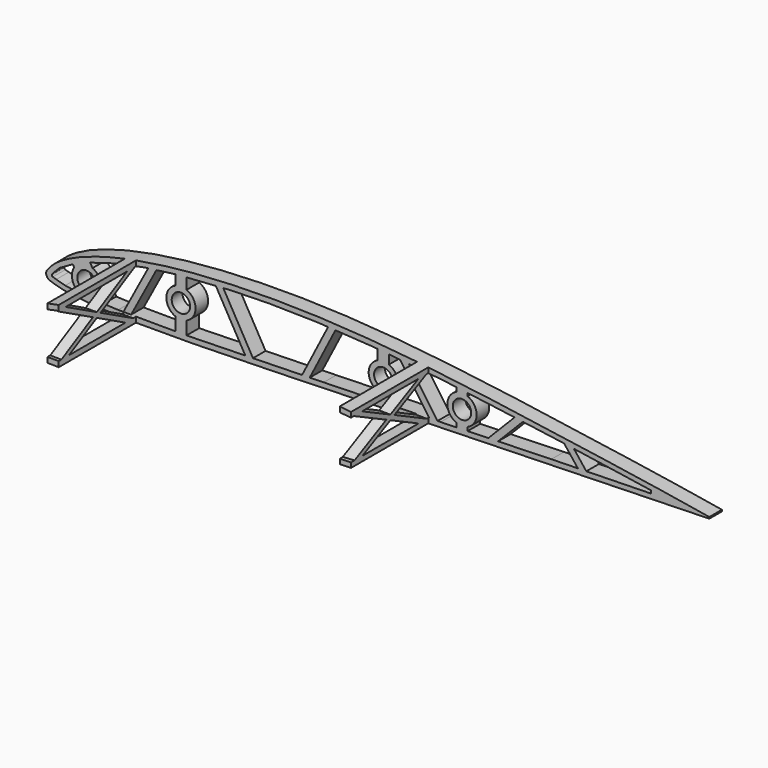
from build123d import *

# Parameters (mm, degrees)
PAD071_DEPTH    = 49.95
POCKET098_DEPTH = 49.95
SKETCH172_W     = 89.545105
SKETCH172_H     = 96.443817
POCKET099_DEPTH = 2.5
SKETCH174_W     = 45
SKETCH174_H     = 60
SKETCH174_W_2   = 125
SKETCH174_W_3   = 130
POCKET100_DEPTH = 50
SKETCH173_R     = 4.1
PAD072_DEPTH    = 7
PAD073_DEPTH    = 5
PAD074_DEPTH    = 5
CHAMFER004_SIZE = 1


with BuildPart() as part:
    # Sketch170 → Pad071 (new body)
    with BuildSketch(Plane.XZ):
        with BuildLine():
            add(Edge.make_bspline(
                [(299.999063, 0.026825), (299.662766, 0.037193), (298.339429, 0.190401), (295.439956, 0.589669), (290.775356, 1.337839), (284.500044, 2.393262), (276.735212, 3.66473), (267.577355, 5.083019), (257.136483, 6.653879), (245.549215, 8.381993), (232.975291, 10.222771), (219.590016, 12.153256), (205.573823, 14.115503), (191.111579, 16.055183), (176.381713, 17.897983), (161.544489, 19.553409), (146.739309, 20.940939), (132.087536, 21.99009), (117.705275, 22.664279), (103.703346, 22.961168), (90.192549, 22.858072), (77.284675, 22.375726), (65.094168, 21.544938), (53.730431, 20.369385), (43.29002, 18.857963), (33.852484, 17.043697), (25.485501, 14.967735), (18.252292, 12.67281), (12.179436, 10.224412), (7.338355, 7.689021), (3.623023, 5.152403), (1.3546, 2.748114), (-0.314638, 0.590402), (0.575789, -1.804065), (3.482069, -2.72942), (7.386052, -3.91761), (13.030922, -4.754284), (20.096342, -5.463024), (28.645402, -5.933379), (38.56853, -6.201185), (49.790194, -6.284208), (62.196701, -6.193111), (75.660953, -5.967607), (90.034637, -5.629522), (105.153445, -5.226063), (120.83724, -4.775199), (136.895942, -4.296045), (153.13493, -3.818601), (169.356828, -3.345106), (185.36574, -2.889379), (200.968742, -2.465331), (215.974941, -2.074889), (230.201502, -1.715375), (243.47905, -1.394255), (255.639348, -1.103787), (266.55871, -0.849968), (276.034544, -0.603524), (284.209012, -0.340437), (290.324953, -0.117215), (295.955653, 0.018504), (297.364702, 0.013759), (300.343856, 0.01512), (300.000055, 0.026794), (299.999063, 0.026825)],
                knots=[0, 0, 0, 0, 1.017748, 3.99659, 8.779341, 15.189917, 23.087031, 32.383824, 42.990765, 54.76218, 67.530065, 81.114584, 95.333435, 109.988542, 124.889458, 139.866624, 154.774633, 169.496697, 183.930349, 197.964304, 211.506735, 224.45797, 236.709214, 248.156653, 258.723012, 268.346769, 276.97692, 284.567784, 291.102108, 296.573756, 300.992679, 304.39163, 306.761357, 308.43213, 311.131254, 315.298227, 320.951765, 328.080828, 336.654655, 346.609821, 357.866231, 370.316475, 383.83025, 398.264023, 413.449345, 429.202773, 445.334827, 461.646891, 477.940787, 494.021253, 509.693044, 524.767168, 539.054704, 552.387642, 564.607107, 575.560217, 585.109622, 593.180747, 599.700326, 604.53767, 607.540683, 608.560842, 608.563842, 608.563842, 608.563842, 608.563842], degree=3))
        make_face()
    extrude(amount=PAD071_DEPTH)

    # Sketch171 (on Face3 of Pad071) → Pocket098 (cut)
    with BuildSketch(Plane.XZ.offset(49.95)):
        with BuildLine():
            Line((2.713263, 0.775372), (3.386703, 1.523026))
            Line((3.386703, 1.523026), (5.993214, 4.179621))
            Line((5.993214, 4.179621), (11.230826, 7.180706))
            Line((11.230826, 7.180706), (18.928726, 10.492708))
            Line((18.928726, 10.492708), (30.015602, 13.804502))
            Line((30.015602, 13.804502), (43.705284, 16.658491))
            Line((43.705284, 16.658491), (58.37534, 18.58366))
            Line((58.37534, 18.58366), (81.932846, 20.199753))
            Line((81.932846, 20.199753), (99.115959, 20.581533))
            Line((99.115959, 20.581533), (120.506348, 20.199753))
            Line((120.506348, 20.199753), (145.772324, 18.655943))
            Line((145.772324, 18.655943), (175.747543, 15.772772))
            Line((175.747543, 15.772772), (200.435547, 12.569891))
            Line((200.435547, 12.569891), (229.384109, 8.602522))
            Line((229.384109, 8.602522), (252.135086, 5.213018))
            Line((252.135086, 5.213018), (269.069916, 2.671427))
            Line((269.069916, 2.671427), (269.069916, 1.39956))
            Line((269.069916, 1.39956), (224.761032, 0.436598))
            Line((224.761032, 0.436598), (175.486649, -1.027315))
            Line((175.486649, -1.027315), (123.47789, -2.412929))
            Line((123.47789, -2.412929), (62.077515, -3.876549))
            Line((62.077515, -3.876549), (32.052879, -3.760909))
            Line((32.052879, -3.760909), (18.887957, -3.18288))
            Line((18.887957, -3.18288), (12.728564, -2.489715))
            Line((12.728564, -2.489715), (8.493419, -1.872198))
            Line((8.493419, -1.872198), (4.562357, -0.768246))
            Line((4.562357, -0.768246), (3.013953, -0.301296))
            ThreePointArc((2.713263, 0.775372), (2.567567, 0.15436), (3.013953, -0.301296))
        make_face()
    extrude(amount=-POCKET098_DEPTH, mode=Mode.SUBTRACT)

    # Sketch172 → Pocket099 (cut, symmetric)
    with BuildSketch(Plane.XY):
        with Locations((339.772552, -30.852761)):
            Rectangle(SKETCH172_W, SKETCH172_H)
    extrude(amount=POCKET099_DEPTH, both=True, mode=Mode.SUBTRACT)

    # Sketch174 → Pocket100 (cut, symmetric)
    with BuildSketch(Plane.XY):
        with Locations((12.5, -37)):
            Rectangle(SKETCH174_W, SKETCH174_H)
        with Locations((102.5, -37)):
            Rectangle(SKETCH174_W_2, SKETCH174_H)
        with Locations((235, -37)):
            Rectangle(SKETCH174_W_3, SKETCH174_H)
    extrude(amount=POCKET100_DEPTH, both=True, mode=Mode.SUBTRACT)

    # Sketch173 (on Face16 of Pocket100) → Pad072 (join)
    with BuildSketch(Plane.XZ.offset(7)):
        Polygon((45.883972, 17.721869), (33.929979, -4.654965), (37.331221, -4.654965), (49.864502, 18.806244), align=None)
        with BuildLine():
            ThreePointArc((12.49229, 6.45183), (11.877033, 0.818423), (15.915785, -3.156789))
            Line((15.915785, -3.156789), (16.615922, -4.582716))
            Line((16.615922, -4.582716), (26.093039, -4.582716))
            Line((23.927186, 0.331954), (26.093039, -4.582716))
            ThreePointArc((23.927186, 0.331954), (24.083233, 5.290038), (20.696327, 8.914374))
            Line((20.696327, 8.914374), (19.191151, 11.361285))
            Line((11.725203, 8.211095), (19.191151, 11.361285))
            Line((12.49229, 6.45183), (11.725203, 8.211095))
        make_face()
        with Locations((18, 3)):
            Circle(SKETCH173_R, mode=Mode.SUBTRACT)
        Polygon((74.837349, 20.968384), (89.206329, -4.249731), (92.659144, -4.249731), (78.184032, 21.154647), align=None)
        Polygon((113.371621, -3.617416), (125.992361, 20.986459), (129.33754, 20.934824), (116.743287, -3.617416), align=None)
        Polygon((156.489991, 19.012594), (171.223801, -2.187052), (175.064011, -2.455857), (160.385949, 18.663577), align=None)
        Polygon((195.991472, -1.145031), (209.190294, 12.320477), (213.439896, 12.370226), (200.19231, -1.145031), align=None)
        Polygon((229.837707, 9.194464), (237.095519, 0), (240.917549, 0), (234.226173, 8.476883), align=None)
        with BuildLine():
            ThreePointArc((57.5, 14), (53.5, 8), (57.5, 2))
            Line((57.5, 2), (57.5, -4.905906))
            Line((57.5, -4.905906), (62.5, -4.905906))
            Line((62.5, -4.905906), (62.5, 2))
            ThreePointArc((62.5, 2), (66.5, 8), (62.5, 14))
            Line((62.5, 14), (62.5, 20.034189))
            Line((62.5, 20.034189), (57.5, 19.556065))
            Line((57.5, 14), (57.5, 19.556065))
        make_face()
        with Locations((60, 8)):
            Circle(SKETCH173_R, mode=Mode.SUBTRACT)
        with BuildLine():
            ThreePointArc((147.5, 14), (143.5, 8), (147.5, 2))
            Line((147.5, 2), (147.5, -2.562403))
            Line((147.5, -2.562403), (152.5, -2.562403))
            Line((152.5, -2.562403), (152.5, 2))
            ThreePointArc((152.5, 2), (156.5, 8), (152.5, 14))
            Line((152.5, 18.960966), (152.5, 14))
            Line((147.5, 19.241402), (152.5, 18.960966))
            Line((147.5, 14), (147.5, 19.241402))
        make_face()
        with Locations((150, 8)):
            Circle(SKETCH173_R, mode=Mode.SUBTRACT)
        with BuildLine():
            ThreePointArc((182.5, 13), (178.5, 7), (182.5, 1))
            Line((182.5, 1), (182.5, -1.799935))
            Line((182.5, -1.799935), (187.5, -1.799935))
            Line((187.5, -1.799935), (187.5, 1))
            ThreePointArc((187.5, 1), (191.5, 7), (187.5, 13))
            Line((187.5, 15.534908), (187.5, 13))
            Line((182.5, 15.936711), (187.5, 15.534908))
            Line((182.5, 13), (182.5, 15.936711))
        make_face()
        with Locations((185, 7)):
            Circle(SKETCH173_R, mode=Mode.SUBTRACT)
    extrude(amount=-PAD072_DEPTH)

    # Sketch175 (on Face17 of Pad072) → Pad073 (join)
    with BuildSketch(Plane(origin=(170, 0, 0), x_dir=(0, 0, 1), z_dir=(1, 0, 0))):
        Polygon((-2.862424, 8.94149), (6.442989, 28.049985), (-2.259602, 45.768041), (-1.567215, 48.792519), (7.5685, 30.334935), (16.796005, 49.309713), (17.609328, 49.309713), (17.609328, 46.4118), (8.669366, 28.053752), (18.467293, 8.207807), (16.796904, 7.181463), (7.587656, 25.787609), (-1.340204, 7.499282), (-2.532652, 7.499282), align=None)
    extrude(amount=-PAD073_DEPTH)

    # Sketch176 (on Face22 of Pad073) → Pad074 (join)
    with BuildSketch(Plane(origin=(35, 0, 0), x_dir=(0, 0, -1), z_dir=(-1, 0, 0))):
        Polygon((-17.041541, 48.311144), (-17.041541, 49.789161), (-15.55834, 49.789161), (5.930288, 8.817383), (5.930288, 7.168498), (4.536703, 7.168498), align=None)
        Polygon((-17.112379, 7.288354), (-16.112644, 7.288354), (5.857902, 48.072935), (5.977349, 49.772485), (4.50171, 49.772485), (-17.112379, 9.649605), align=None)
    extrude(amount=-PAD074_DEPTH)

    # Chamfer004
    chamfer004_edges = [part.edges().sort_by_distance(p)[0] for p in [
        (145.9, 0, 8),
        (55.9, 0, 8),
    ]]
    chamfer(chamfer004_edges, length=CHAMFER004_SIZE)


with BuildPart() as part_1:
    # Body036 placement: moved
    add(part.part.moved(Location((0, -50, 0))))


solid = part_1.part
